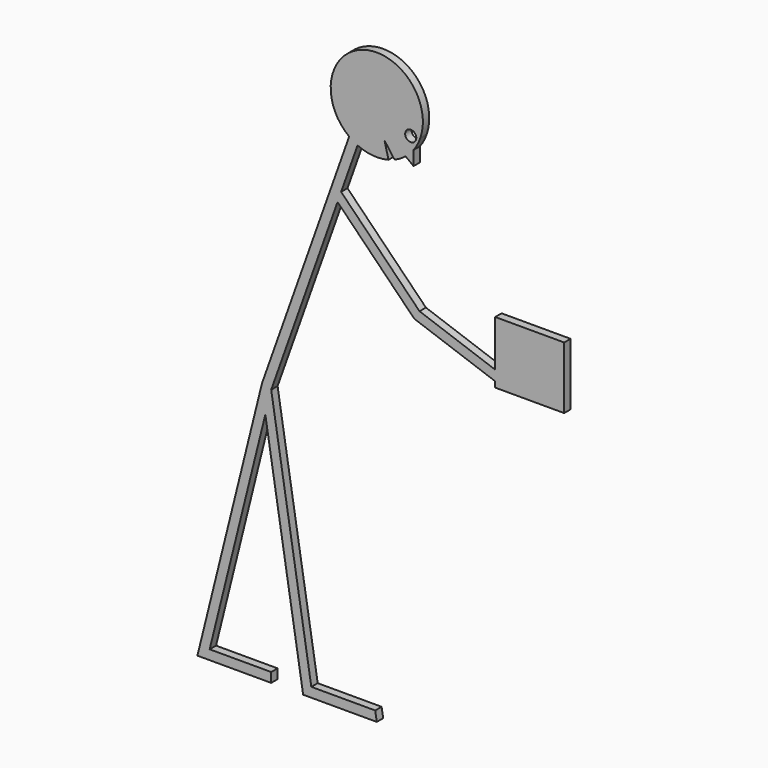
from build123d import *

# Parameters (mm, degrees)
F0_R     = 17.404833
F1_DEPTH = 25


with BuildPart() as f1:
    # F0 (on Front) → F1 (new body)
    with BuildSketch(Plane.XZ):
        with BuildLine():
            Line((-111.585801, 1998.469587), (-60.095077, 2143.496927))
            ThreePointArc((-60.095077, 2143.496927), (-12.417291, 2130.916855), (36.711772, 2135.131671))
            Line((36.711772, 2135.131671), (24.265105, 2184.341908))
            Line((24.265105, 2184.341908), (55.482246, 2141.479414))
            ThreePointArc((55.482246, 2141.479414), (73.526319, 2150.529305), (90.130199, 2162.009733))
            Line((90.130199, 2162.009733), (115.087779, 2143.086061))
            Line((115.087779, 2143.086061), (115.087779, 2187.67683))
            ThreePointArc((115.087779, 2187.67683), (126.636252, 2205.573473), (135.42321, 2224.975701))
            Line((135.42321, 2224.975701), (137.068428, 2229.717785))
            ThreePointArc((137.068428, 2229.717785), (-43.45655, 2412.148094), (-86.385726, 2159.112185))
            Line((-86.385726, 2159.112185), (-359.132131, 1390.902262))
            Line((-359.132131, 1390.902262), (-561.272988, 574.615849))
            Line((-561.272988, 574.615849), (-530.366829, 574.615849))
            Line((-530.366829, 574.615849), (-330.366829, 574.615849))
            Line((-330.366829, 574.615849), (-330.366829, 604.615849))
            Line((-330.366829, 604.615849), (-522.937787, 604.615849))
            Line((-522.937787, 604.615849), (-348.763541, 1307.96733))
            Line((-348.763541, 1307.96733), (-230.388317, 574.615849))
            Line((-230.388317, 574.615849), (-200, 574.615849))
            Line((-200, 574.615849), (0, 574.615849))
            Line((0, 574.615849), (-4.842503, 604.615849))
            Line((-4.842503, 604.615849), (-204.842503, 604.615849))
            Line((-204.842503, 604.615849), (-330.366829, 1382.257043))
            Line((-330.366829, 1382.257043), (-122.741845, 1967.047786))
            Line((-122.741845, 1967.047786), (117.247122, 1723.47319))
            Line((117.247122, 1723.47319), (370.556444, 1633.537867))
            Line((370.556444, 1633.537867), (370.556444, 1616.019726))
            Line((370.556444, 1616.019726), (586.508512, 1616.019726))
            Line((586.508512, 1616.019726), (586.508512, 1810.651302))
            Line((586.508512, 1810.651302), (370.556444, 1810.651302))
            Line((370.556444, 1810.651302), (370.556444, 1665.372581))
            Line((370.556444, 1665.372581), (133.77966, 1749.438167))
            Line((133.77966, 1749.438167), (-111.585801, 1998.469587))
        make_face()
        with Locations((106.28178, 2223.595858)):
            Circle(F0_R, mode=Mode.SUBTRACT)
    extrude(amount=F1_DEPTH)


solid = f1.part
